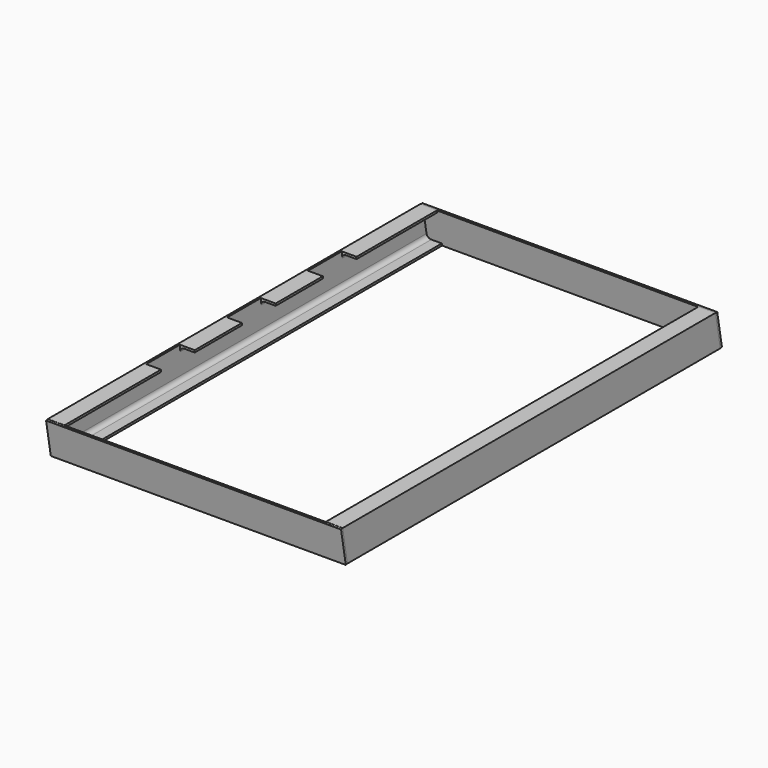
from build123d import *

# Parameters (mm, degrees)
F1_DEPTH = 711.2
F3_DEPTH = 444.501
F5_DEPTH = 444.5
F6_W     = 22.225
F6_H     = 63.5
F7_DEPTH = 25.4


with BuildPart() as f1:
    # F0 (on Front) → F1 (new body)
    with BuildSketch(Plane.XZ):
        with BuildLine():
            Line((25.4, 47.625), (25.4, 50.8))
            Line((25.4, 50.8), (0, 50.8))
            Line((0, 50.8), (0, 0))
            Line((0, 0), (25.4, 0))
            Line((25.4, 0), (25.4, 3.175))
            Line((25.4, 3.175), (9.525, 3.175))
            ThreePointArc((9.525, 3.175), (5.034872, 5.034872), (3.175, 9.525))
            Line((3.175, 9.525), (3.175, 41.275))
            ThreePointArc((3.175, 41.275), (5.034872, 45.765128), (9.525, 47.625))
            Line((9.525, 47.625), (25.4, 47.625))
        make_face()
        with BuildLine():
            Line((444.5, 50.8), (419.1, 50.8))
            Line((419.1, 50.8), (419.1, 47.625))
            Line((419.1, 47.625), (434.975, 47.625))
            ThreePointArc((434.975, 47.625), (439.465128, 45.765128), (441.325, 41.275))
            Line((441.325, 41.275), (441.325, 9.525))
            ThreePointArc((441.325, 9.525), (439.465128, 5.034872), (434.975, 3.175))
            Line((434.975, 3.175), (419.1, 3.175))
            Line((419.1, 3.175), (419.1, 0))
            Line((419.1, 0), (444.5, 0))
            Line((444.5, 0), (444.5, 50.8))
        make_face()
    extrude(amount=F1_DEPTH)

    # F2 (on Right) → F3 (cut, through all)
    with BuildSketch(Plane.YZ):
        Polygon((-8.957411, 50.8), (0, 0), (0, 50.8), align=None)
        Polygon((-711.2, 0), (-702.242589, 0), (-711.2, 50.8), align=None)
    extrude(amount=F3_DEPTH, mode=Mode.SUBTRACT)

    # F6 (on face) → F7 (cut)
    with BuildSketch(Plane.XY.offset(50.8)):
        with Locations((14.2875, -192.971327)):
            Rectangle(F6_W, F6_H)
        with Locations((14.2875, -345.371327)):
            Rectangle(F6_W, F6_H)
        with Locations((14.2875, -497.771327)):
            Rectangle(F6_W, F6_H)
    extrude(amount=-F7_DEPTH, mode=Mode.SUBTRACT)


with BuildPart() as f5:
    # F4 (on Right) → F5 (new body)
    with BuildSketch(Plane.YZ):
        Polygon((-8.821327, 50.028234), (0, 0), (3.126765, 0.551333), (-5.694563, 50.579567), align=None)
        Polygon((-705.368185, -0.551333), (-702.24142, 0), (-711.159962, 50.579567), (-714.286727, 50.028234), align=None)
    extrude(amount=F5_DEPTH)


solid = Compound([f1.part, f5.part])
